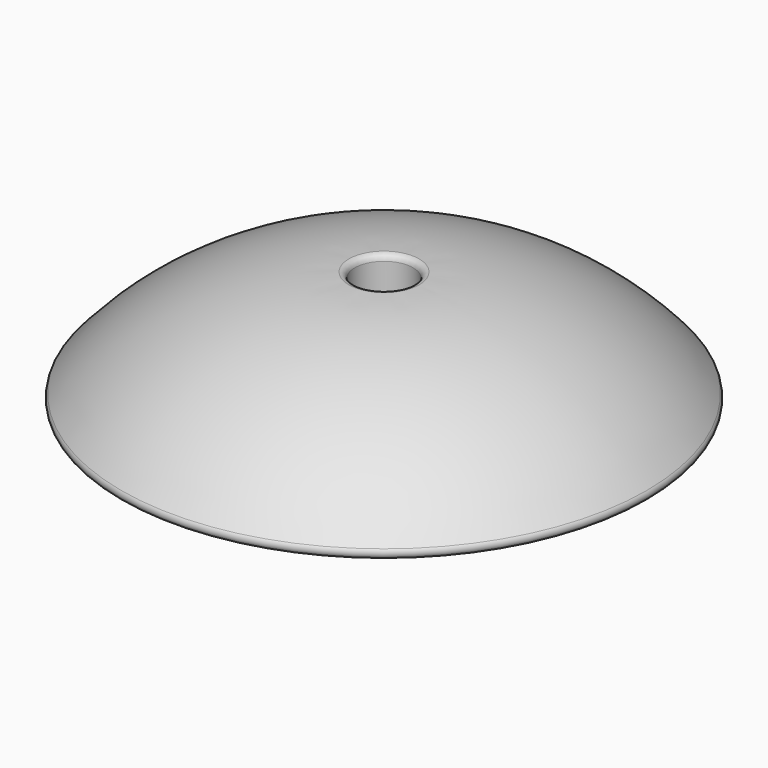
from build123d import *

# Parameters (mm, degrees)
CHAMFER_SIZE = 0.5
FILLET_R     = 2


with BuildPart() as part:
    # Sketch → Revolution (revolve)
    with BuildSketch(Plane.XZ):
        with BuildLine():
            Line((0, 0), (0, 5))
            Line((0, 5), (10, 5))
            Line((10, 5), (10, 40))
            ThreePointArc((90, 3.304699), (54.00723, 30.388574), (10, 40))
            ThreePointArc((88.484163, 0), (90.302047, 1.166153), (90, 3.304699))
            Line((88.484163, 0), (0, 0))
        make_face()
    revolve(axis=Axis((0, 0, 0), (0, 0, 1)))

    # Chamfer
    chamfer_edges = [part.edges().sort_by_distance(p)[0] for p in [
        (-10, 0, 5),
    ]]
    chamfer(chamfer_edges, length=CHAMFER_SIZE)

    # Fillet
    fillet_edges = [part.edges().sort_by_distance(p)[0] for p in [
        (-10, 0, 40),
    ]]
    fillet(fillet_edges, radius=FILLET_R)


solid = part.part
